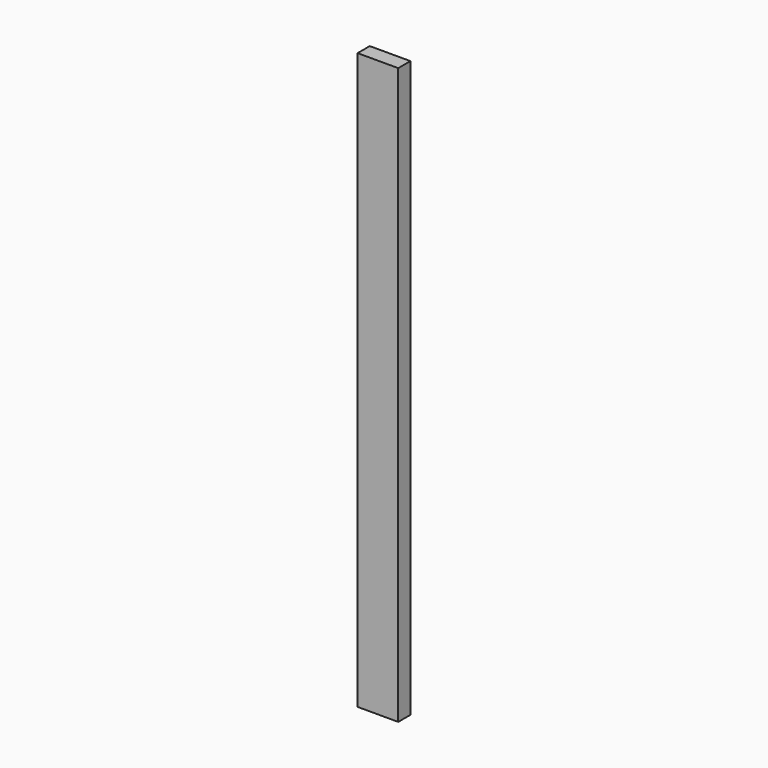
from build123d import *

# Parameters (mm, degrees)
F0_W     = 50.8
F0_H     = 359.56875
F1_DEPTH = 9.525


with BuildPart() as f1:
    # F0 (on Front) → F1 (new body, symmetric)
    with BuildSketch(Plane.XZ):
        with Locations((-19.3039953259, 179.784375)):
            Rectangle(F0_W, F0_H)
        with Locations((-19.3039953259, -179.784375)):
            Rectangle(F0_W, F0_H)
    extrude(amount=F1_DEPTH, both=True)


solid = f1.part
